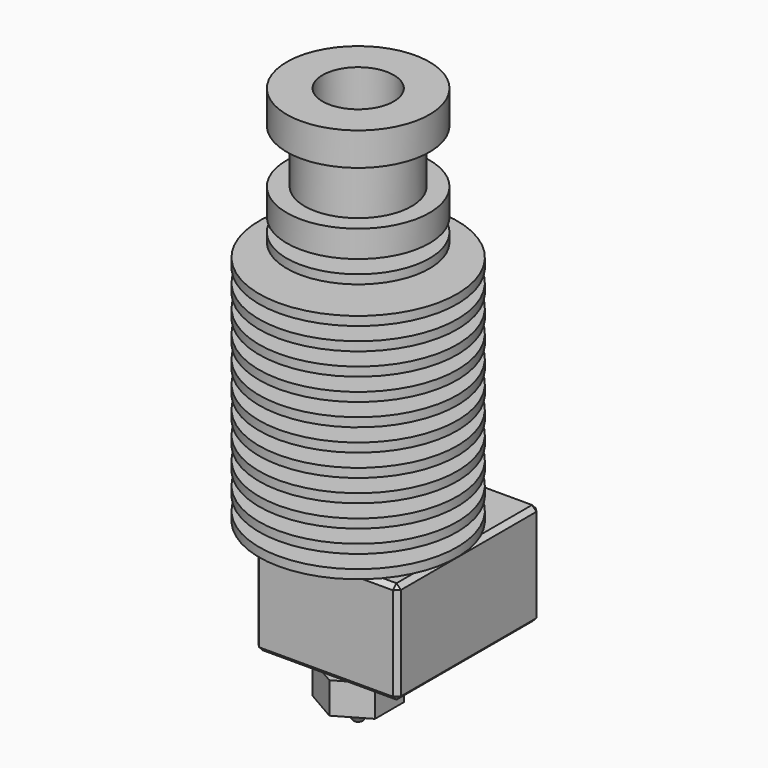
from build123d import *

# Parameters (mm, degrees)
F2_W      = 20
F2_H      = 16
F2_R      = 1.4
F3_DEPTH  = 11.5
F4_SIZE   = 0.5
F7_R      = 2.5
F8_DEPTH  = 3.5
F9_ANGLE  = -90
F10_R     = 4
F11_DEPTH = 10


with BuildPart() as f1:
    # F0 (on Front) → F1 (revolve)
    with BuildSketch(Plane.XZ):
        Polygon((8, 42.7), (0, 42.7), (0, 0), (0, -2.1), (1.4, -2.1), (1.4, 0), (11.1, 0), (11.1, 1), (7.187217, 1), (7.055984, 2.5), (11.1, 2.5), (11.1, 3.5), (6.968495, 3.5), (6.837262, 5), (11.1, 5), (11.1, 6), (6.749773, 6), (6.61854, 7.5), (11.1, 7.5), (11.1, 8.5), (6.531052, 8.5), (6.399819, 10), (11.1, 10), (11.1, 11), (6.31233, 11), (6.181097, 12.5), (11.1, 12.5), (11.1, 13.5), (6.093608, 13.5), (5.962375, 15), (11.1, 15), (11.1, 16), (5.874887, 16), (5.743654, 17.5), (11.1, 17.5), (11.1, 18.5), (5.656165, 18.5), (5.524932, 20), (11.1, 20), (11.1, 21), (5.437443, 21), (5.30621, 22.5), (11.1, 22.5), (11.1, 23.5), (5.218722, 23.5), (5.087489, 25), (11.1, 25), (11.1, 26), (3.490466, 26), (3.490466, 27.5), (8, 27.5), (8, 28.5), (3.490466, 28.5), (3.490466, 30), (8, 30), (8, 33), (6, 33), (6, 39), (8, 39), align=None)
    revolve(axis=Axis((0, 0, 21.35), (0, 0, 1)))

    # F2 (on face) → F3 (join)
    with BuildSketch(Plane(origin=(0, 0, -2.1), x_dir=(1, 0, 0), z_dir=(0, 0, -1))):
        with Locations((-5.5, 0)):
            Rectangle(F2_W, F2_H)
        Circle(F2_R, mode=Mode.SUBTRACT)
        Circle(F2_R)
    extrude(amount=F3_DEPTH)

    # F4
    f4_edges = [f1.edges().sort_by_distance(p)[0] for p in [
        (4.5, -8, -7.85),
        (-15.5, -8, -7.85),
        (-5.5, -8, -2.1),
        (-5.5, -8, -13.6),
        (4.5, 8, -7.85),
        (4.5, 0, -2.1),
        (4.5, 0, -13.6),
        (-15.5, 8, -7.85),
        (-5.5, 8, -2.1),
        (-5.5, 8, -13.6),
        (-15.5, 0, -2.1),
        (-15.5, 0, -13.6),
    ]]
    chamfer(f4_edges, length=F4_SIZE)

    # F5 (on Front) → F6 (revolve)
    with BuildSketch(Plane.XZ):
        Polygon((2.5, -7.1), (0, -7.1), (0, -19.6), (0.5, -19.6), (1.900415, -17.6), (2.5, -17.6), (2.5, -14.6), align=None)
    revolve(axis=Axis((0, 0, -13.35), (0, 0, -1)))

    # F7 (on face) → F8 (join)
    with BuildSketch(Plane(origin=(0, 0, -17.6), x_dir=(1, 0, 0), z_dir=(0, 0, -1))):
        Polygon((2.020726, -3.5), (4.041452, 0), (2.020726, 3.5), (-2.020726, 3.5), (-4.041452, 0), (-2.020726, -3.5), align=None)
        Circle(F7_R, mode=Mode.SUBTRACT)
    extrude(amount=-F8_DEPTH)


with BuildPart() as f1_1:
    # F9: moved
    add(f1.part.rotate(Axis((0, 0, 21.35), (0, 0, 1)), F9_ANGLE))

    # F10 (on face) → F11 (cut)
    with BuildSketch(Plane.XY.offset(42.7)):
        Circle(F10_R)
    extrude(amount=-F11_DEPTH, mode=Mode.SUBTRACT)


solid = f1_1.part
